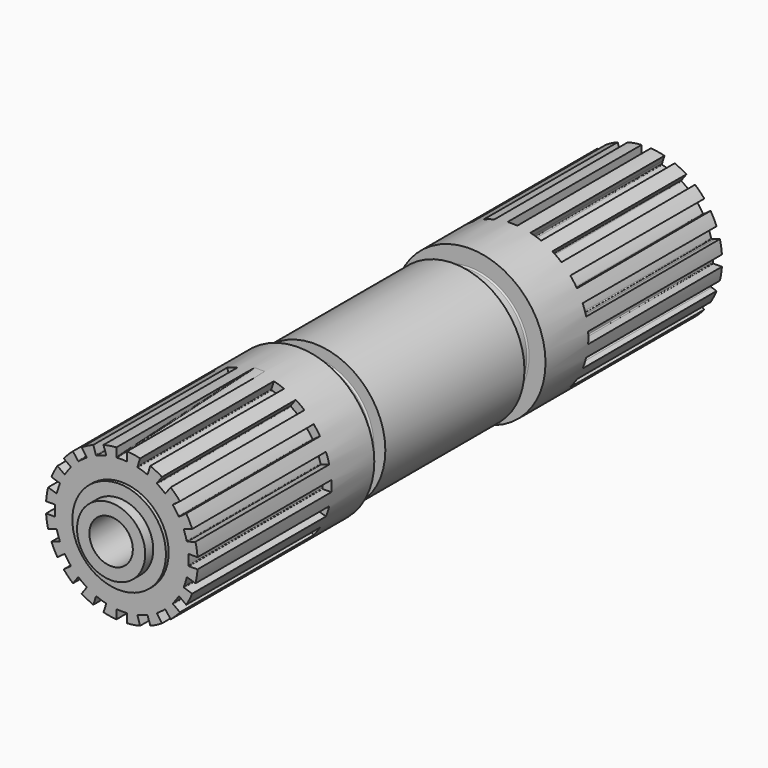
from build123d import *

# Parameters (mm, degrees)
F0_R      = 5.1
F0_R_2    = 3.25
F1_DEPTH  = 51
F0_R_3    = 7
F2_DEPTH  = 49.5
F0_R_4    = 1.5
F3_DEPTH  = 42.5
F0_R_5    = 11.35
F0_R_6    = 10.6
F0_R_7    = 10
F0_R_8    = 8.7
F4_DEPTH  = 49
F5_R      = 11.35
F5_R_2    = 8.7
F6_DEPTH  = 16
F7_R      = 10.6
F7_R_2    = 8.7
F8_DEPTH  = 13
F11_R     = 1
F19_R     = 0.2
F20_DEPTH = 25
F22_DEPTH = 25
F22_TAPER = -0.1


with BuildPart() as f1:
    # F0 (on Front) → F1 (new body, symmetric)
    with BuildSketch(Plane.XZ):
        Circle(F0_R)
        Circle(F0_R_2, mode=Mode.SUBTRACT)
    extrude(amount=F1_DEPTH, both=True)


with BuildPart() as f2:
    # F0 (on Front) → F2 (new body, symmetric)
    with BuildSketch(Plane.XZ):
        Circle(F0_R_3)
        Circle(F0_R, mode=Mode.SUBTRACT)
    extrude(amount=F2_DEPTH, both=True)


with BuildPart() as f3:
    # F0 (on Front) → F3 (new body, symmetric)
    with BuildSketch(Plane.XZ):
        Circle(F0_R_2)
        Circle(F0_R_4, mode=Mode.SUBTRACT)
    extrude(amount=F3_DEPTH, both=True)


with BuildPart() as f4:
    # F0 (on Front) → F4 (new body, symmetric)
    with BuildSketch(Plane.XZ):
        Circle(F0_R_5)
        Circle(F0_R_6, mode=Mode.SUBTRACT)
        Circle(F0_R_6)
        Circle(F0_R_7, mode=Mode.SUBTRACT)
        Circle(F0_R_7)
        Circle(F0_R_8, mode=Mode.SUBTRACT)
        Circle(F0_R_8)
        Circle(F0_R_3, mode=Mode.SUBTRACT)
    extrude(amount=F4_DEPTH, both=True)

    # F5 (on Front) → F6 (cut, symmetric)
    with BuildSketch(Plane.XZ):
        Circle(F5_R)
        Circle(F5_R_2, mode=Mode.SUBTRACT)
    extrude(amount=F6_DEPTH, both=True, mode=Mode.SUBTRACT)

    # F7 (on Front) → F8 (join, symmetric)
    with BuildSketch(Plane.XZ):
        Circle(F7_R)
        Circle(F7_R_2, mode=Mode.SUBTRACT)
    extrude(amount=F8_DEPTH, both=True)

    # F18: sweep along a path in F16
    with BuildLine(Plane.YZ) as f18_path:
        Line((-49, 10.675), (-13.6326389121, 12.5285248537))
    # F17 (on offset) → F18 (sweep, cut)
    with BuildSketch(Plane.XZ.offset(49)):
        with BuildLine():
            Line((0.8, 10.0757133742), (0.8, 11.3217710629))
            ThreePointArc((0.8, 11.3217710629), (0, 11.35), (-0.8, 11.3217710629))
            Line((-0.8, 11.3217710629), (-0.8, 10.0757133742))
            ThreePointArc((-0.8, 10.0757133742), (-0.7682163129, 10.0025933725), (-0.6930693069, 9.9759538359))
            ThreePointArc((-0.6930693069, 9.9759538359), (0, 10), (0.6930693069, 9.9759538359))
            ThreePointArc((0.6930693069, 9.9759538359), (0.7682163129, 10.0025933725), (0.8, 10.0757133742))
        make_face()
    sweep(path=f18_path.line, mode=Mode.SUBTRACT)

    # F19
    f19_edges = [f4.edges().sort_by_distance(p)[0] for p in [
        (8.7, -14.5, 0),
        (-8.7, -13, 0),
        (-8.7, -16, 0),
        (-8.7, 13, 0),
        (8.7, 14.5, 0),
        (-8.7, 16, 0),
    ]]
    fillet(f19_edges, radius=F19_R)

    # F17 (on offset) → F20 (cut)
    with BuildSketch(Plane.XZ.offset(49)):
        with BuildLine():
            ThreePointArc((-8.6892769944, 7.3019836561), (-9.1823428862, 6.6713626135), (-9.6297333981, 6.0075564651))
            Line((-9.6297333981, 6.0075564651), (-8.6216515521, 5.2751421322))
            ThreePointArc((-8.6216515521, 5.2751421322), (-8.5438142455, 5.2578768165), (-8.4780921058, 5.3030136947))
            ThreePointArc((-8.4780921058, 5.3030136947), (-8.0901699437, 5.8778525229), (-7.6633402709, 6.4244233899))
            ThreePointArc((-7.6633402709, 6.4244233899), (-7.6407218069, 6.5008769215), (-7.6811951484, 6.5695693232))
            Line((-7.6811951484, 6.5695693232), (-8.6892769944, 7.3019836561))
        make_face()
        with BuildLine():
            ThreePointArc((-10.5204305498, 4.2594648779), (-10.7944914599, 3.5073428862), (-11.0148577408, 2.7377744518))
            Line((-11.0148577408, 2.7377744518), (-9.8297864564, 2.3527214501))
            ThreePointArc((-9.8297864564, 2.3527214501), (-9.7504235028, 2.3603542096), (-9.701866096, 2.4235911898))
            ThreePointArc((-9.701866096, 2.4235911898), (-9.510565163, 3.0901699437), (-9.2735257078, 3.741887351))
            ThreePointArc((-9.2735257078, 3.741887351), (-9.2756397107, 3.8215884702), (-9.3353592654, 3.8744118761))
            Line((-9.3353592654, 3.8744118761), (-10.5204305498, 4.2594648779))
        make_face()
        with BuildLine():
            ThreePointArc((-11.3217710629, 0.8), (-11.35, 0), (-11.3217710629, -0.8))
            Line((-11.3217710629, -0.8), (-10.0757133742, -0.8))
            ThreePointArc((-10.0757133742, -0.8), (-10.0025933725, -0.7682163129), (-9.9759538359, -0.6930693069))
            ThreePointArc((-9.9759538359, -0.6930693069), (-10, 0), (-9.9759538359, 0.6930693069))
            ThreePointArc((-9.9759538359, 0.6930693069), (-10.0025933725, 0.7682163129), (-10.0757133742, 0.8))
            Line((-10.0757133742, 0.8), (-11.3217710629, 0.8))
        make_face()
        with BuildLine():
            ThreePointArc((-11.0148577408, -2.7377744518), (-10.7944914599, -3.5073428862), (-10.5204305498, -4.2594648779))
            Line((-10.5204305498, -4.2594648779), (-9.3353592654, -3.8744118761))
            ThreePointArc((-9.3353592654, -3.8744118761), (-9.2756397107, -3.8215884702), (-9.2735257078, -3.741887351))
            ThreePointArc((-9.2735257078, -3.741887351), (-9.510565163, -3.0901699437), (-9.701866096, -2.4235911898))
            ThreePointArc((-9.701866096, -2.4235911898), (-9.7504235028, -2.3603542096), (-9.8297864564, -2.3527214501))
            Line((-9.8297864564, -2.3527214501), (-11.0148577408, -2.7377744518))
        make_face()
        with BuildLine():
            ThreePointArc((-9.6297333981, -6.0075564651), (-9.1823428862, -6.6713626135), (-8.6892769944, -7.3019836561))
            Line((-8.6892769944, -7.3019836561), (-7.6811951484, -6.5695693232))
            ThreePointArc((-7.6811951484, -6.5695693232), (-7.6407218069, -6.5008769215), (-7.6633402709, -6.4244233899))
            ThreePointArc((-7.6633402709, -6.4244233899), (-8.0901699437, -5.8778525229), (-8.4780921058, -5.3030136947))
            ThreePointArc((-8.4780921058, -5.3030136947), (-8.5438142455, -5.2578768165), (-8.6216515521, -5.2751421322))
            Line((-8.6216515521, -5.2751421322), (-9.6297333981, -6.0075564651))
        make_face()
        with BuildLine():
            ThreePointArc((-7.3019836561, -8.6892769944), (-6.6713626135, -9.1823428862), (-6.0075564651, -9.6297333981))
            Line((-6.0075564651, -9.6297333981), (-5.2751421322, -8.6216515521))
            ThreePointArc((-5.2751421322, -8.6216515521), (-5.2578768165, -8.5438142455), (-5.3030136947, -8.4780921058))
            ThreePointArc((-5.3030136947, -8.4780921058), (-5.8778525229, -8.0901699437), (-6.4244233899, -7.6633402709))
            ThreePointArc((-6.4244233899, -7.6633402709), (-6.5008769215, -7.6407218069), (-6.5695693232, -7.6811951484))
            Line((-6.5695693232, -7.6811951484), (-7.3019836561, -8.6892769944))
        make_face()
        with BuildLine():
            ThreePointArc((-4.2594648779, -10.5204305498), (-3.5073428862, -10.7944914599), (-2.7377744518, -11.0148577408))
            Line((-2.7377744518, -11.0148577408), (-2.3527214501, -9.8297864564))
            ThreePointArc((-2.3527214501, -9.8297864564), (-2.3603542096, -9.7504235028), (-2.4235911898, -9.701866096))
            ThreePointArc((-2.4235911898, -9.701866096), (-3.0901699437, -9.510565163), (-3.741887351, -9.2735257078))
            ThreePointArc((-3.741887351, -9.2735257078), (-3.8215884702, -9.2756397107), (-3.8744118761, -9.3353592654))
            Line((-3.8744118761, -9.3353592654), (-4.2594648779, -10.5204305498))
        make_face()
        with BuildLine():
            ThreePointArc((-0.8, -11.3217710629), (0, -11.35), (0.8, -11.3217710629))
            Line((0.8, -11.3217710629), (0.8, -10.0757133742))
            ThreePointArc((0.8, -10.0757133742), (0.7682163129, -10.0025933725), (0.6930693069, -9.9759538359))
            ThreePointArc((0.6930693069, -9.9759538359), (0, -10), (-0.6930693069, -9.9759538359))
            ThreePointArc((-0.6930693069, -9.9759538359), (-0.7682163129, -10.0025933725), (-0.8, -10.0757133742))
            Line((-0.8, -10.0757133742), (-0.8, -11.3217710629))
        make_face()
        with BuildLine():
            ThreePointArc((2.7377744518, -11.0148577408), (3.5073428862, -10.7944914599), (4.2594648779, -10.5204305498))
            Line((4.2594648779, -10.5204305498), (3.8744118761, -9.3353592654))
            ThreePointArc((3.8744118761, -9.3353592654), (3.8215884702, -9.2756397107), (3.741887351, -9.2735257078))
            ThreePointArc((3.741887351, -9.2735257078), (3.0901699437, -9.510565163), (2.4235911898, -9.701866096))
            ThreePointArc((2.4235911898, -9.701866096), (2.3603542096, -9.7504235028), (2.3527214501, -9.8297864564))
            Line((2.3527214501, -9.8297864564), (2.7377744518, -11.0148577408))
        make_face()
        with BuildLine():
            ThreePointArc((6.0075564651, -9.6297333981), (6.6713626135, -9.1823428862), (7.3019836561, -8.6892769944))
            Line((7.3019836561, -8.6892769944), (6.5695693232, -7.6811951484))
            ThreePointArc((6.5695693232, -7.6811951484), (6.5008769215, -7.6407218069), (6.4244233899, -7.6633402709))
            ThreePointArc((6.4244233899, -7.6633402709), (5.8778525229, -8.0901699437), (5.3030136947, -8.4780921058))
            ThreePointArc((5.3030136947, -8.4780921058), (5.2578768165, -8.5438142455), (5.2751421322, -8.6216515521))
            Line((5.2751421322, -8.6216515521), (6.0075564651, -9.6297333981))
        make_face()
        with BuildLine():
            ThreePointArc((8.6892769944, -7.3019836561), (9.1823428862, -6.6713626135), (9.6297333981, -6.0075564651))
            Line((9.6297333981, -6.0075564651), (8.6216515521, -5.2751421322))
            ThreePointArc((8.6216515521, -5.2751421322), (8.5438142455, -5.2578768165), (8.4780921058, -5.3030136947))
            ThreePointArc((8.4780921058, -5.3030136947), (8.0901699437, -5.8778525229), (7.6633402709, -6.4244233899))
            ThreePointArc((7.6633402709, -6.4244233899), (7.6407218069, -6.5008769215), (7.6811951484, -6.5695693232))
            Line((7.6811951484, -6.5695693232), (8.6892769944, -7.3019836561))
        make_face()
        with BuildLine():
            ThreePointArc((10.5204305498, -4.2594648779), (10.7944914599, -3.5073428862), (11.0148577408, -2.7377744518))
            Line((11.0148577408, -2.7377744518), (9.8297864564, -2.3527214501))
            ThreePointArc((9.8297864564, -2.3527214501), (9.7504235028, -2.3603542096), (9.701866096, -2.4235911898))
            ThreePointArc((9.701866096, -2.4235911898), (9.510565163, -3.0901699437), (9.2735257078, -3.741887351))
            ThreePointArc((9.2735257078, -3.741887351), (9.2756397107, -3.8215884702), (9.3353592654, -3.8744118761))
            Line((9.3353592654, -3.8744118761), (10.5204305498, -4.2594648779))
        make_face()
        with BuildLine():
            ThreePointArc((11.3217710629, -0.8), (11.35, 0), (11.3217710629, 0.8))
            Line((11.3217710629, 0.8), (10.0757133742, 0.8))
            ThreePointArc((10.0757133742, 0.8), (10.0025933725, 0.7682163129), (9.9759538359, 0.6930693069))
            ThreePointArc((9.9759538359, 0.6930693069), (10, 0), (9.9759538359, -0.6930693069))
            ThreePointArc((9.9759538359, -0.6930693069), (10.0025933725, -0.7682163129), (10.0757133742, -0.8))
            Line((10.0757133742, -0.8), (11.3217710629, -0.8))
        make_face()
        with BuildLine():
            ThreePointArc((11.0148577408, 2.7377744518), (10.7944914599, 3.5073428862), (10.5204305498, 4.2594648779))
            Line((10.5204305498, 4.2594648779), (9.3353592654, 3.8744118761))
            ThreePointArc((9.3353592654, 3.8744118761), (9.2756397107, 3.8215884702), (9.2735257078, 3.741887351))
            ThreePointArc((9.2735257078, 3.741887351), (9.510565163, 3.0901699437), (9.701866096, 2.4235911898))
            ThreePointArc((9.701866096, 2.4235911898), (9.7504235028, 2.3603542096), (9.8297864564, 2.3527214501))
            Line((9.8297864564, 2.3527214501), (11.0148577408, 2.7377744518))
        make_face()
        with BuildLine():
            ThreePointArc((9.6297333981, 6.0075564651), (9.1823428862, 6.6713626135), (8.6892769944, 7.3019836561))
            Line((8.6892769944, 7.3019836561), (7.6811951484, 6.5695693232))
            ThreePointArc((7.6811951484, 6.5695693232), (7.6407218069, 6.5008769215), (7.6633402709, 6.4244233899))
            ThreePointArc((7.6633402709, 6.4244233899), (8.0901699437, 5.8778525229), (8.4780921058, 5.3030136947))
            ThreePointArc((8.4780921058, 5.3030136947), (8.5438142455, 5.2578768165), (8.6216515521, 5.2751421322))
            Line((8.6216515521, 5.2751421322), (9.6297333981, 6.0075564651))
        make_face()
        with BuildLine():
            ThreePointArc((7.3019836561, 8.6892769944), (6.6713626135, 9.1823428862), (6.0075564651, 9.6297333981))
            Line((6.0075564651, 9.6297333981), (5.2751421322, 8.6216515521))
            ThreePointArc((5.2751421322, 8.6216515521), (5.2578768165, 8.5438142455), (5.3030136947, 8.4780921058))
            ThreePointArc((5.3030136947, 8.4780921058), (5.8778525229, 8.0901699437), (6.4244233899, 7.6633402709))
            ThreePointArc((6.4244233899, 7.6633402709), (6.5008769215, 7.6407218069), (6.5695693232, 7.6811951484))
            Line((6.5695693232, 7.6811951484), (7.3019836561, 8.6892769944))
        make_face()
        with BuildLine():
            ThreePointArc((4.2594648779, 10.5204305498), (3.5073428862, 10.7944914599), (2.7377744518, 11.0148577408))
            Line((2.7377744518, 11.0148577408), (2.3527214501, 9.8297864564))
            ThreePointArc((2.3527214501, 9.8297864564), (2.3603542096, 9.7504235028), (2.4235911898, 9.701866096))
            ThreePointArc((2.4235911898, 9.701866096), (3.0901699437, 9.510565163), (3.741887351, 9.2735257078))
            ThreePointArc((3.741887351, 9.2735257078), (3.8215884702, 9.2756397107), (3.8744118761, 9.3353592654))
            Line((3.8744118761, 9.3353592654), (4.2594648779, 10.5204305498))
        make_face()
        with BuildLine():
            ThreePointArc((-2.7377744518, 11.0148577408), (-3.5073428862, 10.7944914599), (-4.2594648779, 10.5204305498))
            Line((-4.2594648779, 10.5204305498), (-3.8744118761, 9.3353592654))
            ThreePointArc((-3.8744118761, 9.3353592654), (-3.8215884702, 9.2756397107), (-3.741887351, 9.2735257078))
            ThreePointArc((-3.741887351, 9.2735257078), (-3.0901699437, 9.510565163), (-2.4235911898, 9.701866096))
            ThreePointArc((-2.4235911898, 9.701866096), (-2.3603542096, 9.7504235028), (-2.3527214501, 9.8297864564))
            Line((-2.3527214501, 9.8297864564), (-2.7377744518, 11.0148577408))
        make_face()
        with BuildLine():
            ThreePointArc((-6.0075564651, 9.6297333981), (-6.6713626135, 9.1823428862), (-7.3019836561, 8.6892769944))
            Line((-7.3019836561, 8.6892769944), (-6.5695693232, 7.6811951484))
            ThreePointArc((-6.5695693232, 7.6811951484), (-6.5008769215, 7.6407218069), (-6.4244233899, 7.6633402709))
            ThreePointArc((-6.4244233899, 7.6633402709), (-5.8778525229, 8.0901699437), (-5.3030136947, 8.4780921058))
            ThreePointArc((-5.3030136947, 8.4780921058), (-5.2578768165, 8.5438142455), (-5.2751421322, 8.6216515521))
            Line((-5.2751421322, 8.6216515521), (-6.0075564651, 9.6297333981))
        make_face()
    extrude(amount=-F20_DEPTH, mode=Mode.SUBTRACT)

    # F21 (on face) → F22 (cut)
    with BuildSketch(Plane(origin=(0, 49, 0), x_dir=(-1, 0, 0), z_dir=(0, 1, 0))):
        with BuildLine():
            Line((-5.5655402781, 9.0213503098), (-6.0075564651, 9.6297333981))
            ThreePointArc((-6.0075564651, 9.6297333981), (-6.6713626135, 9.1823428862), (-7.3019836561, 8.6892769944))
            Line((-7.3019836561, 8.6892769944), (-6.8599674691, 8.0808939062))
            ThreePointArc((-6.8599674691, 8.0808939062), (-6.2305236743, 8.5755801404), (-5.5655402781, 9.0213503098))
        make_face()
        with BuildLine():
            Line((-5.2751421322, 8.6216515521), (-5.5655402781, 9.0213503098))
            ThreePointArc((-5.5655402781, 9.0213503098), (-6.2305236743, 8.5755801404), (-6.8599674691, 8.0808939062))
            Line((-6.8599674691, 8.0808939062), (-6.5695693232, 7.6811951484))
            ThreePointArc((-6.5695693232, 7.6811951484), (-6.5008769215, 7.6407218069), (-6.4244233899, 7.6633402709))
            ThreePointArc((-6.4244233899, 7.6633402709), (-5.8778525229, 8.0901699437), (-5.3030136947, 8.4780921058))
            ThreePointArc((-5.3030136947, 8.4780921058), (-5.2578768165, 8.5438142455), (-5.2751421322, 8.6216515521))
        make_face()
        with BuildLine():
            Line((-2.5053927903, 10.2996605268), (-2.7377744518, 11.0148577408))
            ThreePointArc((-2.7377744518, 11.0148577408), (-3.5073428862, 10.7944914599), (-4.2594648779, 10.5204305498))
            Line((-4.2594648779, 10.5204305498), (-4.0270832163, 9.8052333358))
            ThreePointArc((-4.0270832163, 9.8052333358), (-3.2755801404, 10.0811990727), (-2.5053927903, 10.2996605268))
        make_face()
        with BuildLine():
            Line((-2.3527214501, 9.8297864564), (-2.5053927903, 10.2996605268))
            ThreePointArc((-2.5053927903, 10.2996605268), (-3.2755801404, 10.0811990727), (-4.0270832163, 9.8052333358))
            Line((-4.0270832163, 9.8052333358), (-3.8744118761, 9.3353592654))
            ThreePointArc((-3.8744118761, 9.3353592654), (-3.8215884702, 9.2756397107), (-3.741887351, 9.2735257078))
            ThreePointArc((-3.741887351, 9.2735257078), (-3.0901699437, 9.510565163), (-2.4235911898, 9.701866096))
            ThreePointArc((-2.4235911898, 9.701866096), (-2.3603542096, 9.7504235028), (-2.3527214501, 9.8297864564))
        make_face()
        with BuildLine():
            Line((0, 10.6), (0, 11.35))
            ThreePointArc((0, 11.35), (-0.3466964346, 11.3447036798), (-0.6930693069, 11.3288196621))
            Line((-0.6930693069, 11.3288196621), (-0.6930693069, 10.5773179462))
            ThreePointArc((-0.6930693069, 10.5773179462), (-0.3467201825, 10.594327969), (0, 10.6))
        make_face()
        with BuildLine():
            Line((0.6930693069, 10.5773179462), (0.6930693069, 11.3288196621))
            ThreePointArc((0.6930693069, 11.3288196621), (0.3466964346, 11.3447036798), (0, 11.35))
            Line((0, 11.35), (0, 10.6))
            ThreePointArc((0, 10.6), (0.3467201825, 10.594327969), (0.6930693069, 10.5773179462))
        make_face()
        with BuildLine():
            Line((0, 10), (0, 10.6))
            ThreePointArc((0, 10.6), (-0.3467201825, 10.594327969), (-0.6930693069, 10.5773179462))
            Line((-0.6930693069, 10.5773179462), (-0.6930693069, 9.9759538359))
            ThreePointArc((-0.6930693069, 9.9759538359), (-0.3467431622, 9.993986651), (0, 10))
        make_face()
        with BuildLine():
            Line((0.6930693069, 9.9759538359), (0.6930693069, 10.5773179462))
            ThreePointArc((0.6930693069, 10.5773179462), (0.3467201825, 10.594327969), (0, 10.6))
            Line((0, 10.6), (0, 10))
            ThreePointArc((0, 10), (0.3467431622, 9.993986651), (0.6930693069, 9.9759538359))
        make_face()
        with BuildLine():
            ThreePointArc((4.2594648779, 10.5204305498), (3.5073428862, 10.7944914599), (2.7377744518, 11.0148577408))
            Line((2.7377744518, 11.0148577408), (2.5053927903, 10.2996605268))
            ThreePointArc((2.5053927903, 10.2996605268), (3.2755801404, 10.0811990727), (4.0270832163, 9.8052333358))
            Line((4.0270832163, 9.8052333358), (4.2594648779, 10.5204305498))
        make_face()
        with BuildLine():
            ThreePointArc((4.0270832163, 9.8052333358), (3.2755801404, 10.0811990727), (2.5053927903, 10.2996605268))
            Line((2.5053927903, 10.2996605268), (2.3527214501, 9.8297864564))
            ThreePointArc((2.3527214501, 9.8297864564), (2.3603542096, 9.7504235028), (2.4235911898, 9.701866096))
            ThreePointArc((2.4235911898, 9.701866096), (3.0901699437, 9.510565163), (3.741887351, 9.2735257078))
            ThreePointArc((3.741887351, 9.2735257078), (3.8215884702, 9.2756397107), (3.8744118761, 9.3353592654))
            Line((3.8744118761, 9.3353592654), (4.0270832163, 9.8052333358))
        make_face()
        with BuildLine():
            ThreePointArc((7.3019836561, 8.6892769944), (6.6713626135, 9.1823428862), (6.0075564651, 9.6297333981))
            Line((6.0075564651, 9.6297333981), (5.5655402781, 9.0213503098))
            ThreePointArc((5.5655402781, 9.0213503098), (6.2305236743, 8.5755801404), (6.8599674691, 8.0808939062))
            Line((6.8599674691, 8.0808939062), (7.3019836561, 8.6892769944))
        make_face()
        with BuildLine():
            ThreePointArc((6.8599674691, 8.0808939062), (6.2305236743, 8.5755801404), (5.5655402781, 9.0213503098))
            Line((5.5655402781, 9.0213503098), (5.2751421322, 8.6216515521))
            ThreePointArc((5.2751421322, 8.6216515521), (5.2578768165, 8.5438142455), (5.3030136947, 8.4780921058))
            ThreePointArc((5.3030136947, 8.4780921058), (5.8778525229, 8.0901699437), (6.4244233899, 7.6633402709))
            ThreePointArc((6.4244233899, 7.6633402709), (6.5008769215, 7.6407218069), (6.5695693232, 7.6811951484))
            Line((6.5695693232, 7.6811951484), (6.8599674691, 8.0808939062))
        make_face()
        with BuildLine():
            ThreePointArc((9.6297333981, 6.0075564651), (9.1823428862, 6.6713626135), (8.6892769944, 7.3019836561))
            Line((8.6892769944, 7.3019836561), (8.0808939062, 6.8599674691))
            ThreePointArc((8.0808939062, 6.8599674691), (8.5755801404, 6.2305236743), (9.0213503098, 5.5655402781))
            Line((9.0213503098, 5.5655402781), (9.6297333981, 6.0075564651))
        make_face()
        with BuildLine():
            ThreePointArc((9.0213503098, 5.5655402781), (8.5755801404, 6.2305236743), (8.0808939062, 6.8599674691))
            Line((8.0808939062, 6.8599674691), (7.6811951484, 6.5695693232))
            ThreePointArc((7.6811951484, 6.5695693232), (7.6407218069, 6.5008769215), (7.6633402709, 6.4244233899))
            ThreePointArc((7.6633402709, 6.4244233899), (8.0901699437, 5.8778525229), (8.4780921058, 5.3030136947))
            ThreePointArc((8.4780921058, 5.3030136947), (8.5438142455, 5.2578768165), (8.6216515521, 5.2751421322))
            Line((8.6216515521, 5.2751421322), (9.0213503098, 5.5655402781))
        make_face()
        with BuildLine():
            ThreePointArc((11.0148577408, 2.7377744518), (10.7944914599, 3.5073428862), (10.5204305498, 4.2594648779))
            Line((10.5204305498, 4.2594648779), (9.8052333358, 4.0270832163))
            ThreePointArc((9.8052333358, 4.0270832163), (10.0811990727, 3.2755801404), (10.2996605268, 2.5053927903))
            Line((10.2996605268, 2.5053927903), (11.0148577408, 2.7377744518))
        make_face()
        with BuildLine():
            ThreePointArc((10.2996605268, 2.5053927903), (10.0811990727, 3.2755801404), (9.8052333358, 4.0270832163))
            Line((9.8052333358, 4.0270832163), (9.3353592654, 3.8744118761))
            ThreePointArc((9.3353592654, 3.8744118761), (9.2756397107, 3.8215884702), (9.2735257078, 3.741887351))
            ThreePointArc((9.2735257078, 3.741887351), (9.510565163, 3.0901699437), (9.701866096, 2.4235911898))
            ThreePointArc((9.701866096, 2.4235911898), (9.7504235028, 2.3603542096), (9.8297864564, 2.3527214501))
            Line((9.8297864564, 2.3527214501), (10.2996605268, 2.5053927903))
        make_face()
        with BuildLine():
            ThreePointArc((10.6, 0), (10.592439356, 0.400285511), (10.5697682094, 0.8))
            Line((10.5697682094, 0.8), (10.0757133742, 0.8))
            ThreePointArc((10.0757133742, 0.8), (10.0025933725, 0.7682163129), (9.9759538359, 0.6930693069))
            ThreePointArc((9.9759538359, 0.6930693069), (10, 0), (9.9759538359, -0.6930693069))
            ThreePointArc((9.9759538359, -0.6930693069), (10.0025933725, -0.7682163129), (10.0757133742, -0.8))
            Line((10.0757133742, -0.8), (10.5697682094, -0.8))
            ThreePointArc((10.5697682094, -0.8), (10.592439356, -0.400285511), (10.6, 0))
        make_face()
        with BuildLine():
            ThreePointArc((11.35, 0), (11.3429405703, 0.4002489453), (11.3217710629, 0.8))
            Line((11.3217710629, 0.8), (10.5697682094, 0.8))
            ThreePointArc((10.5697682094, 0.8), (10.592439356, 0.400285511), (10.6, 0))
            ThreePointArc((10.6, 0), (10.592439356, -0.400285511), (10.5697682094, -0.8))
            Line((10.5697682094, -0.8), (11.3217710629, -0.8))
            ThreePointArc((11.3217710629, -0.8), (11.3429405703, -0.4002489453), (11.35, 0))
        make_face()
        with BuildLine():
            ThreePointArc((9.8052333358, -4.0270832163), (10.0811990727, -3.2755801404), (10.2996605268, -2.5053927903))
            Line((10.2996605268, -2.5053927903), (9.8297864564, -2.3527214501))
            ThreePointArc((9.8297864564, -2.3527214501), (9.7504235028, -2.3603542096), (9.701866096, -2.4235911898))
            ThreePointArc((9.701866096, -2.4235911898), (9.510565163, -3.0901699437), (9.2735257078, -3.741887351))
            ThreePointArc((9.2735257078, -3.741887351), (9.2756397107, -3.8215884702), (9.3353592654, -3.8744118761))
            Line((9.3353592654, -3.8744118761), (9.8052333358, -4.0270832163))
        make_face()
        with BuildLine():
            ThreePointArc((10.5204305498, -4.2594648779), (10.7944914599, -3.5073428862), (11.0148577408, -2.7377744518))
            Line((11.0148577408, -2.7377744518), (10.2996605268, -2.5053927903))
            ThreePointArc((10.2996605268, -2.5053927903), (10.0811990727, -3.2755801404), (9.8052333358, -4.0270832163))
            Line((9.8052333358, -4.0270832163), (10.5204305498, -4.2594648779))
        make_face()
        with BuildLine():
            ThreePointArc((8.0808939062, -6.8599674691), (8.5755801404, -6.2305236743), (9.0213503098, -5.5655402781))
            Line((9.0213503098, -5.5655402781), (8.6216515521, -5.2751421322))
            ThreePointArc((8.6216515521, -5.2751421322), (8.5438142455, -5.2578768165), (8.4780921058, -5.3030136947))
            ThreePointArc((8.4780921058, -5.3030136947), (8.0901699437, -5.8778525229), (7.6633402709, -6.4244233899))
            ThreePointArc((7.6633402709, -6.4244233899), (7.6407218069, -6.5008769215), (7.6811951484, -6.5695693232))
            Line((7.6811951484, -6.5695693232), (8.0808939062, -6.8599674691))
        make_face()
        with BuildLine():
            ThreePointArc((8.6892769944, -7.3019836561), (9.1823428862, -6.6713626135), (9.6297333981, -6.0075564651))
            Line((9.6297333981, -6.0075564651), (9.0213503098, -5.5655402781))
            ThreePointArc((9.0213503098, -5.5655402781), (8.5755801404, -6.2305236743), (8.0808939062, -6.8599674691))
            Line((8.0808939062, -6.8599674691), (8.6892769944, -7.3019836561))
        make_face()
        with BuildLine():
            ThreePointArc((5.5655402781, -9.0213503098), (6.2305236743, -8.5755801404), (6.8599674691, -8.0808939062))
            Line((6.8599674691, -8.0808939062), (6.5695693232, -7.6811951484))
            ThreePointArc((6.5695693232, -7.6811951484), (6.5008769215, -7.6407218069), (6.4244233899, -7.6633402709))
            ThreePointArc((6.4244233899, -7.6633402709), (5.8778525229, -8.0901699437), (5.3030136947, -8.4780921058))
            ThreePointArc((5.3030136947, -8.4780921058), (5.2578768165, -8.5438142455), (5.2751421322, -8.6216515521))
            Line((5.2751421322, -8.6216515521), (5.5655402781, -9.0213503098))
        make_face()
        with BuildLine():
            ThreePointArc((6.0075564651, -9.6297333981), (6.6713626135, -9.1823428862), (7.3019836561, -8.6892769944))
            Line((7.3019836561, -8.6892769944), (6.8599674691, -8.0808939062))
            ThreePointArc((6.8599674691, -8.0808939062), (6.2305236743, -8.5755801404), (5.5655402781, -9.0213503098))
            Line((5.5655402781, -9.0213503098), (6.0075564651, -9.6297333981))
        make_face()
        with BuildLine():
            ThreePointArc((2.5053927903, -10.2996605268), (3.2755801404, -10.0811990727), (4.0270832163, -9.8052333358))
            Line((4.0270832163, -9.8052333358), (3.8744118761, -9.3353592654))
            ThreePointArc((3.8744118761, -9.3353592654), (3.8215884702, -9.2756397107), (3.741887351, -9.2735257078))
            ThreePointArc((3.741887351, -9.2735257078), (3.0901699437, -9.510565163), (2.4235911898, -9.701866096))
            ThreePointArc((2.4235911898, -9.701866096), (2.3603542096, -9.7504235028), (2.3527214501, -9.8297864564))
            Line((2.3527214501, -9.8297864564), (2.5053927903, -10.2996605268))
        make_face()
        with BuildLine():
            ThreePointArc((2.7377744518, -11.0148577408), (3.5073428862, -10.7944914599), (4.2594648779, -10.5204305498))
            Line((4.2594648779, -10.5204305498), (4.0270832163, -9.8052333358))
            ThreePointArc((4.0270832163, -9.8052333358), (3.2755801404, -10.0811990727), (2.5053927903, -10.2996605268))
            Line((2.5053927903, -10.2996605268), (2.7377744518, -11.0148577408))
        make_face()
        with BuildLine():
            ThreePointArc((-0.8, -10.5697682094), (0, -10.6), (0.8, -10.5697682094))
            Line((0.8, -10.5697682094), (0.8, -10.0757133742))
            ThreePointArc((0.8, -10.0757133742), (0.7682163129, -10.0025933725), (0.6930693069, -9.9759538359))
            ThreePointArc((0.6930693069, -9.9759538359), (0, -10), (-0.6930693069, -9.9759538359))
            ThreePointArc((-0.6930693069, -9.9759538359), (-0.7682163129, -10.0025933725), (-0.8, -10.0757133742))
            Line((-0.8, -10.0757133742), (-0.8, -10.5697682094))
        make_face()
        with BuildLine():
            ThreePointArc((-0.8, -11.3217710629), (0, -11.35), (0.8, -11.3217710629))
            Line((0.8, -11.3217710629), (0.8, -10.5697682094))
            ThreePointArc((0.8, -10.5697682094), (0, -10.6), (-0.8, -10.5697682094))
            Line((-0.8, -10.5697682094), (-0.8, -11.3217710629))
        make_face()
        with BuildLine():
            Line((-3.8744118761, -9.3353592654), (-4.0270832163, -9.8052333358))
            ThreePointArc((-4.0270832163, -9.8052333358), (-3.2755801404, -10.0811990727), (-2.5053927903, -10.2996605268))
            Line((-2.5053927903, -10.2996605268), (-2.3527214501, -9.8297864564))
            ThreePointArc((-2.3527214501, -9.8297864564), (-2.3603542096, -9.7504235028), (-2.4235911898, -9.701866096))
            ThreePointArc((-2.4235911898, -9.701866096), (-3.0901699437, -9.510565163), (-3.741887351, -9.2735257078))
            ThreePointArc((-3.741887351, -9.2735257078), (-3.8215884702, -9.2756397107), (-3.8744118761, -9.3353592654))
        make_face()
        with BuildLine():
            Line((-4.0270832163, -9.8052333358), (-4.2594648779, -10.5204305498))
            ThreePointArc((-4.2594648779, -10.5204305498), (-3.5073428862, -10.7944914599), (-2.7377744518, -11.0148577408))
            Line((-2.7377744518, -11.0148577408), (-2.5053927903, -10.2996605268))
            ThreePointArc((-2.5053927903, -10.2996605268), (-3.2755801404, -10.0811990727), (-4.0270832163, -9.8052333358))
        make_face()
        with BuildLine():
            Line((-6.5695693232, -7.6811951484), (-6.8599674691, -8.0808939062))
            ThreePointArc((-6.8599674691, -8.0808939062), (-6.2305236743, -8.5755801404), (-5.5655402781, -9.0213503098))
            Line((-5.5655402781, -9.0213503098), (-5.2751421322, -8.6216515521))
            ThreePointArc((-5.2751421322, -8.6216515521), (-5.2578768165, -8.5438142455), (-5.3030136947, -8.4780921058))
            ThreePointArc((-5.3030136947, -8.4780921058), (-5.8778525229, -8.0901699437), (-6.4244233899, -7.6633402709))
            ThreePointArc((-6.4244233899, -7.6633402709), (-6.5008769215, -7.6407218069), (-6.5695693232, -7.6811951484))
        make_face()
        with BuildLine():
            Line((-6.8599674691, -8.0808939062), (-7.3019836561, -8.6892769944))
            ThreePointArc((-7.3019836561, -8.6892769944), (-6.6713626135, -9.1823428862), (-6.0075564651, -9.6297333981))
            Line((-6.0075564651, -9.6297333981), (-5.5655402781, -9.0213503098))
            ThreePointArc((-5.5655402781, -9.0213503098), (-6.2305236743, -8.5755801404), (-6.8599674691, -8.0808939062))
        make_face()
        with BuildLine():
            Line((-8.6216515521, -5.2751421322), (-9.0213503098, -5.5655402781))
            ThreePointArc((-9.0213503098, -5.5655402781), (-8.5755801404, -6.2305236743), (-8.0808939062, -6.8599674691))
            Line((-8.0808939062, -6.8599674691), (-7.6811951484, -6.5695693232))
            ThreePointArc((-7.6811951484, -6.5695693232), (-7.6407218069, -6.5008769215), (-7.6633402709, -6.4244233899))
            ThreePointArc((-7.6633402709, -6.4244233899), (-8.0901699437, -5.8778525229), (-8.4780921058, -5.3030136947))
            ThreePointArc((-8.4780921058, -5.3030136947), (-8.5438142455, -5.2578768165), (-8.6216515521, -5.2751421322))
        make_face()
        with BuildLine():
            Line((-9.0213503098, -5.5655402781), (-9.6297333981, -6.0075564651))
            ThreePointArc((-9.6297333981, -6.0075564651), (-9.1823428862, -6.6713626135), (-8.6892769944, -7.3019836561))
            Line((-8.6892769944, -7.3019836561), (-8.0808939062, -6.8599674691))
            ThreePointArc((-8.0808939062, -6.8599674691), (-8.5755801404, -6.2305236743), (-9.0213503098, -5.5655402781))
        make_face()
        with BuildLine():
            Line((-9.8297864564, -2.3527214501), (-10.2996605268, -2.5053927903))
            ThreePointArc((-10.2996605268, -2.5053927903), (-10.0811990727, -3.2755801404), (-9.8052333358, -4.0270832163))
            Line((-9.8052333358, -4.0270832163), (-9.3353592654, -3.8744118761))
            ThreePointArc((-9.3353592654, -3.8744118761), (-9.2756397107, -3.8215884702), (-9.2735257078, -3.741887351))
            ThreePointArc((-9.2735257078, -3.741887351), (-9.510565163, -3.0901699437), (-9.701866096, -2.4235911898))
            ThreePointArc((-9.701866096, -2.4235911898), (-9.7504235028, -2.3603542096), (-9.8297864564, -2.3527214501))
        make_face()
        with BuildLine():
            Line((-10.2996605268, -2.5053927903), (-11.0148577408, -2.7377744518))
            ThreePointArc((-11.0148577408, -2.7377744518), (-10.7944914599, -3.5073428862), (-10.5204305498, -4.2594648779))
            Line((-10.5204305498, -4.2594648779), (-9.8052333358, -4.0270832163))
            ThreePointArc((-9.8052333358, -4.0270832163), (-10.0811990727, -3.2755801404), (-10.2996605268, -2.5053927903))
        make_face()
        with BuildLine():
            Line((-10.0757133742, 0.8), (-10.5697682094, 0.8))
            ThreePointArc((-10.5697682094, 0.8), (-10.6, 0), (-10.5697682094, -0.8))
            Line((-10.5697682094, -0.8), (-10.0757133742, -0.8))
            ThreePointArc((-10.0757133742, -0.8), (-10.0025933725, -0.7682163129), (-9.9759538359, -0.6930693069))
            ThreePointArc((-9.9759538359, -0.6930693069), (-10, 0), (-9.9759538359, 0.6930693069))
            ThreePointArc((-9.9759538359, 0.6930693069), (-10.0025933725, 0.7682163129), (-10.0757133742, 0.8))
        make_face()
        with BuildLine():
            Line((-10.5697682094, 0.8), (-11.3217710629, 0.8))
            ThreePointArc((-11.3217710629, 0.8), (-11.35, 0), (-11.3217710629, -0.8))
            Line((-11.3217710629, -0.8), (-10.5697682094, -0.8))
            ThreePointArc((-10.5697682094, -0.8), (-10.6, 0), (-10.5697682094, 0.8))
        make_face()
        with BuildLine():
            Line((-9.3353592654, 3.8744118761), (-9.8052333358, 4.0270832163))
            ThreePointArc((-9.8052333358, 4.0270832163), (-10.0811990727, 3.2755801404), (-10.2996605268, 2.5053927903))
            Line((-10.2996605268, 2.5053927903), (-9.8297864564, 2.3527214501))
            ThreePointArc((-9.8297864564, 2.3527214501), (-9.7504235028, 2.3603542096), (-9.701866096, 2.4235911898))
            ThreePointArc((-9.701866096, 2.4235911898), (-9.510565163, 3.0901699437), (-9.2735257078, 3.741887351))
            ThreePointArc((-9.2735257078, 3.741887351), (-9.2756397107, 3.8215884702), (-9.3353592654, 3.8744118761))
        make_face()
        with BuildLine():
            Line((-9.8052333358, 4.0270832163), (-10.5204305498, 4.2594648779))
            ThreePointArc((-10.5204305498, 4.2594648779), (-10.7944914599, 3.5073428862), (-11.0148577408, 2.7377744518))
            Line((-11.0148577408, 2.7377744518), (-10.2996605268, 2.5053927903))
            ThreePointArc((-10.2996605268, 2.5053927903), (-10.0811990727, 3.2755801404), (-9.8052333358, 4.0270832163))
        make_face()
        with BuildLine():
            Line((-7.6811951484, 6.5695693232), (-8.0808939062, 6.8599674691))
            ThreePointArc((-8.0808939062, 6.8599674691), (-8.5755801404, 6.2305236743), (-9.0213503098, 5.5655402781))
            Line((-9.0213503098, 5.5655402781), (-8.6216515521, 5.2751421322))
            ThreePointArc((-8.6216515521, 5.2751421322), (-8.5438142455, 5.2578768165), (-8.4780921058, 5.3030136947))
            ThreePointArc((-8.4780921058, 5.3030136947), (-8.0901699437, 5.8778525229), (-7.6633402709, 6.4244233899))
            ThreePointArc((-7.6633402709, 6.4244233899), (-7.6407218069, 6.5008769215), (-7.6811951484, 6.5695693232))
        make_face()
        with BuildLine():
            Line((-8.0808939062, 6.8599674691), (-8.6892769944, 7.3019836561))
            ThreePointArc((-8.6892769944, 7.3019836561), (-9.1823428862, 6.6713626135), (-9.6297333981, 6.0075564651))
            Line((-9.6297333981, 6.0075564651), (-9.0213503098, 5.5655402781))
            ThreePointArc((-9.0213503098, 5.5655402781), (-8.5755801404, 6.2305236743), (-8.0808939062, 6.8599674691))
        make_face()
    extrude(amount=-F22_DEPTH, taper=F22_TAPER, mode=Mode.SUBTRACT)


with BuildPart() as f12:
    # F11 (on Right) → F12 (revolve)
    with BuildSketch(Plane.YZ):
        with Locations((-42.5, 3.25)):
            Circle(F11_R)
    revolve(axis=Axis((0, -42.5, 0), (0, -1, 0)))


with BuildPart() as f13_1:
    # F13: instance of F12
    add(f12.part.mirror(Plane.XZ))


solid = Compound([f1.part, f2.part, f3.part, f4.part, f12.part, f13_1.part])
